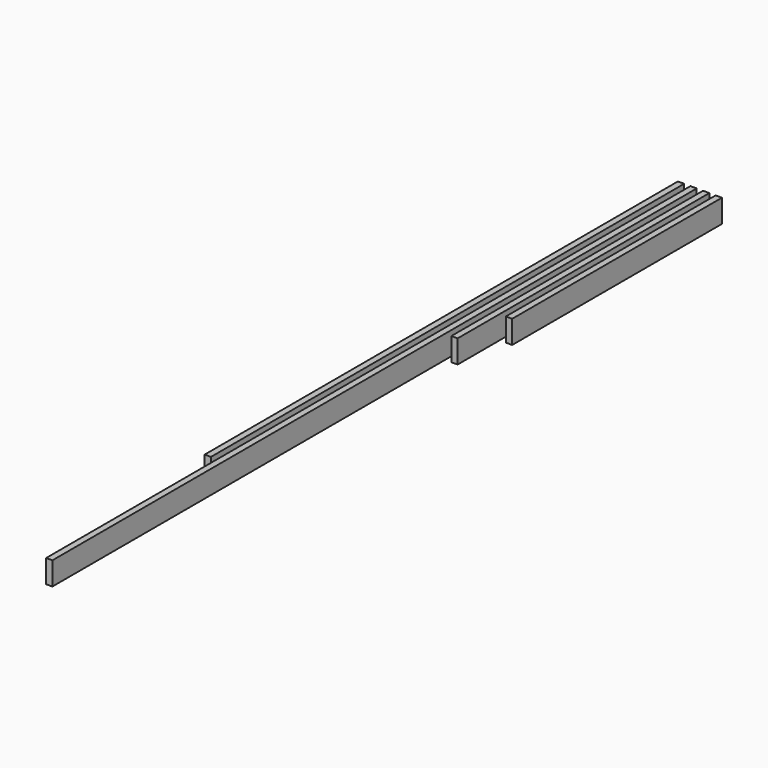
from build123d import *

# Parameters (mm, degrees)
F0_W     = 38.1
F0_H     = 139.7
F1_DEPTH = 3581.4
F2_DEPTH = 4876.8
F3_DEPTH = 1905
F4_DEPTH = 1587.5


with BuildPart() as f1:
    # F0 (on Front) → F1 (new body)
    with BuildSketch(Plane.XZ):
        Rectangle(F0_W, F0_H)
    extrude(amount=F1_DEPTH)


with BuildPart() as f2:
    # F0 (on Front) → F2 (new body)
    with BuildSketch(Plane.XZ):
        with Locations((76.2, 0)):
            Rectangle(F0_W, F0_H)
    extrude(amount=F2_DEPTH)


with BuildPart() as f3:
    # F0 (on Front) → F3 (new body)
    with BuildSketch(Plane.XZ):
        with Locations((152.4, 0)):
            Rectangle(F0_W, F0_H)
    extrude(amount=F3_DEPTH)


with BuildPart() as f4:
    # F0 (on Front) → F4 (new body)
    with BuildSketch(Plane.XZ):
        with Locations((228.6, 0)):
            Rectangle(F0_W, F0_H)
    extrude(amount=F4_DEPTH)


solid = Compound([f1.part, f2.part, f3.part, f4.part])
